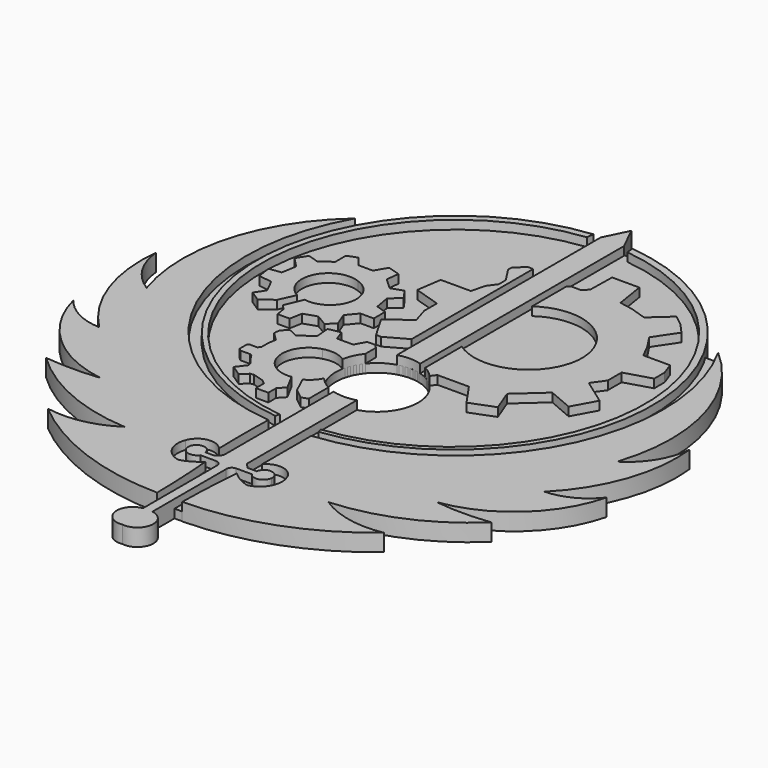
from build123d import *

# Parameters (mm, degrees)
F2_DEPTH = 1.25
F3_DEPTH = 0.625
F5_R     = 3
F6_DEPTH = 2.54


with BuildPart() as f2:
    # F0 (on Top) → F2 (new body)
    with BuildSketch(Plane.XY):
        with BuildLine():
            ThreePointArc((7.96665, -14.113483), (12.689905, -12.973137), (16.731889, -10.276491))
            ThreePointArc((16.731889, -10.276491), (14.747744, -10.404392), (12.7636, -10.276491))
            ThreePointArc((12.7636, -10.276491), (17.332897, -8.126856), (19.93525, -3.799367))
            ThreePointArc((19.93525, -3.799367), (18.517616, -4.982954), (16.731889, -5.453849))
            ThreePointArc((16.731889, -5.453849), (19.377335, -1.223938), (19.93525, 3.733811))
            ThreePointArc((19.93525, 3.733811), (19.235053, 1.594903), (17.647134, 0))
            ThreePointArc((17.647134, 0), (17.826824, 7.616048), (13.747909, 14.050247))
            ThreePointArc((13.747909, 14.050247), (14.000056, -0.308123), (2.111879, -8.364028))
            Line((2.111879, -8.364028), (2.111879, -12.835627))
            ThreePointArc((2.111879, -12.835627), (3.288923, -12.41736), (4.233484, -13.234786))
            ThreePointArc((4.233484, -13.234786), (4.137004, -14.587473), (3.028349, -15.368469))
            ThreePointArc((3.028349, -15.368469), (2.315874, -15.065061), (1.695128, -14.602079))
            ThreePointArc((1.695128, -14.602079), (1.534916, -16.935639), (1.463834, -19.273613))
            ThreePointArc((1.463834, -19.273613), (7.477276, -18.159801), (12.7636, -15.084603))
            ThreePointArc((12.7636, -15.084603), (10.27066, -15.06566), (7.96665, -14.113483))
        make_face()
        with BuildLine():
            ThreePointArc((-6.858689, -14.113483), (-9.1627, -15.06566), (-11.655639, -15.084603))
            ThreePointArc((-11.655639, -15.084603), (-6.369315, -18.159801), (-0.355873, -19.273613))
            ThreePointArc((-0.355873, -19.273613), (-0.426955, -16.935639), (-0.587167, -14.602079))
            ThreePointArc((-0.587167, -14.602079), (-1.207913, -15.065061), (-1.920388, -15.368469))
            ThreePointArc((-1.920388, -15.368469), (-3.029043, -14.587473), (-3.125524, -13.234786))
            ThreePointArc((-3.125524, -13.234786), (-2.180962, -12.41736), (-1.003918, -12.835627))
            ThreePointArc((-1.003918, -12.835627), (-1.038829, -10.599828), (-1.003918, -8.364028))
            ThreePointArc((-1.003918, -8.364028), (-12.892096, -0.308123), (-12.639948, 14.050247))
            ThreePointArc((-12.639948, 14.050247), (-16.718863, 7.616048), (-16.539173, 0))
            ThreePointArc((-16.539173, 0), (-18.127093, 1.594903), (-18.827289, 3.733811))
            ThreePointArc((-18.827289, 3.733811), (-18.269374, -1.223938), (-15.623928, -5.453849))
            ThreePointArc((-15.623928, -5.453849), (-17.409656, -4.982954), (-18.827289, -3.799367))
            ThreePointArc((-18.827289, -3.799367), (-16.224936, -8.126856), (-11.655639, -10.276491))
            ThreePointArc((-11.655639, -10.276491), (-13.639783, -10.382298), (-15.623928, -10.276491))
            ThreePointArc((-15.623928, -10.276491), (-11.581945, -12.973137), (-6.858689, -14.113483))
        make_face()
        with BuildLine():
            Line((-2.66604, -4.558767), (-3.287662, -3.396926))
            ThreePointArc((-3.287662, -3.396926), (-5.458791, -1.879863), (-4.055453, 0.366451))
            ThreePointArc((-4.055453, 0.366451), (-1.665422, -0.782654), (-2.592574, -3.267223))
            Line((-2.592574, -3.267223), (-2.036038, -4.46336))
            Line((-2.036038, -4.46336), (-1.305065, -5.044816))
            Line((-1.305065, -5.044816), (-0.848206, -4.878686))
            Line((-0.848206, -4.878686), (-0.848206, -3.533031))
            Line((-0.848206, -3.533031), (-0.848206, 0.611917))
            Line((-0.848206, 0.611917), (-1.786842, 1.450874))
            Line((-1.786842, 1.450874), (-1.786842, 2.38951))
            Line((-1.786842, 2.38951), (-2.05265, 2.638705))
            Line((-2.05265, 2.638705), (-2.617493, 2.638705))
            Line((-2.617493, 2.638705), (-3.033743, 1.885299))
            Line((-3.033743, 1.885299), (-4.217403, 1.885299))
            Line((-4.217403, 1.885299), (-4.485816, 2.646537))
            Line((-4.485816, 2.646537), (-5.37466, 2.470528))
            Line((-5.37466, 2.470528), (-5.282256, 1.414475))
            Line((-5.282256, 1.414475), (-5.799396, 1.060874))
            Line((-5.799396, 1.060874), (-6.302614, 0.735263))
            Line((-6.302614, 0.735263), (-6.600717, 0.872098))
            Line((-6.600717, 0.872098), (-6.825726, 1.010356))
            Line((-6.825726, 1.010356), (-7.021806, 1.010356))
            Line((-7.021806, 1.010356), (-7.369935, 0.620925))
            Line((-7.369935, 0.620925), (-7.417405, 0.400861))
            Line((-7.417405, 0.400861), (-7.417405, 0.177091))
            Line((-7.417405, 0.177091), (-6.820686, -0.405643))
            Line((-6.820686, -0.405643), (-6.916015, -0.937096))
            Line((-6.916015, -0.937096), (-6.916015, -1.609442))
            Line((-6.916015, -1.609442), (-7.070383, -1.782124))
            Line((-7.070383, -1.782124), (-7.596276, -1.782124))
            Line((-7.596276, -1.782124), (-7.754477, -1.884163))
            Line((-7.754477, -1.884163), (-7.754477, -2.52189))
            Line((-7.754477, -2.52189), (-7.587268, -2.684698))
            Line((-7.587268, -2.684698), (-6.861232, -2.684698))
            Line((-6.861232, -2.684698), (-6.716025, -2.763902))
            Line((-6.716025, -2.763902), (-6.42561, -3.212725))
            Line((-6.42561, -3.212725), (-6.178326, -3.504713))
            Line((-6.178326, -3.504713), (-6.086026, -3.798096))
            Line((-6.086026, -3.798096), (-6.613457, -4.496942))
            Line((-6.613457, -4.496942), (-5.838793, -5.011186))
            Line((-5.838793, -5.011186), (-5.364106, -4.566167))
            Line((-5.364106, -4.566167), (-5.108125, -4.521766))
            Line((-5.108125, -4.521766), (-4.316297, -4.765974))
            Line((-4.316297, -4.765974), (-4.005487, -5.002782))
            Line((-4.005487, -5.002782), (-4.005487, -5.742808))
            Line((-4.005487, -5.742808), (-3.102655, -5.742808))
            Line((-3.102655, -5.742808), (-3.102655, -5.024983))
            Line((-3.102655, -5.024983), (-2.66604, -4.558767))
        make_face()
        with BuildLine():
            Line((-9.839283, 3.489518), (-9.31066, 4.640741))
            ThreePointArc((-9.31066, 4.640741), (-10.167984, 7.150235), (-7.713044, 8.153148))
            ThreePointArc((-7.713044, 8.153148), (-6.436513, 5.882432), (-8.629324, 4.476281))
            Line((-8.629324, 4.476281), (-9.169694, 3.184091))
            Line((-9.169694, 3.184091), (-8.840773, 2.796434))
            Line((-8.840773, 2.796434), (-8.723301, 2.126845))
            Line((-8.723301, 2.126845), (-7.842262, 2.126845))
            Line((-7.842262, 2.126845), (-7.677802, 3.031378))
            Line((-7.677802, 3.031378), (-6.738028, 3.348552))
            Line((-6.738028, 3.348552), (-5.880484, 2.843423))
            Line((-5.880484, 2.843423), (-5.340114, 3.383793))
            Line((-5.340114, 3.383793), (-5.727771, 4.370556))
            Line((-5.727771, 4.370556), (-5.10517, 5.122376))
            Line((-5.10517, 5.122376), (-4.130154, 5.122376))
            Line((-4.130154, 5.122376), (-4.130154, 6.14438))
            Line((-4.130154, 6.14438), (-4.881973, 6.391071))
            Line((-4.881973, 6.391071), (-5.081675, 7.507053))
            Line((-5.081675, 7.507053), (-4.376845, 8.1414))
            Line((-4.376845, 8.1414), (-4.893721, 8.881473))
            Line((-4.893721, 8.881473), (-5.751265, 8.587793))
            Line((-5.751265, 8.587793), (-6.56182, 9.327866))
            Line((-6.56182, 9.327866), (-6.444348, 10.255893))
            Line((-6.444348, 10.255893), (-7.337134, 10.526078))
            Line((-7.337134, 10.526078), (-7.842262, 9.680281))
            Line((-7.842262, 9.680281), (-8.899509, 9.680281))
            Line((-8.899509, 9.680281), (-9.47512, 10.420353))
            Line((-9.47512, 10.420353), (-10.179951, 10.150168))
            Line((-10.179951, 10.150168), (-10.179951, 9.186899))
            Line((-10.179951, 9.186899), (-11.014001, 8.587793))
            Line((-11.014001, 8.587793), (-11.801062, 8.834484))
            Line((-11.801062, 8.834484), (-12.270949, 8.094412))
            Line((-12.270949, 8.094412), (-11.554372, 7.35434))
            Line((-11.554372, 7.35434), (-11.738026, 6.278024))
            Line((-11.738026, 6.278024), (-12.611617, 6.156127))
            Line((-12.611617, 6.156127), (-12.470651, 5.14587))
            Line((-12.470651, 5.14587), (-11.495635, 5.016651))
            Line((-11.495635, 5.016651), (-11.010943, 4.028227))
            Line((-11.010943, 4.028227), (-11.483888, 3.31331))
            Line((-11.483888, 3.31331), (-10.720322, 2.808181))
            Line((-10.720322, 2.808181), (-9.839283, 3.489518))
        make_face()
        with BuildLine():
            ThreePointArc((8.126893, 8.355334), (5.83482, 5.175692), (1.932796, 5.547089))
            Line((1.932796, 5.547089), (1.932796, 0.429071))
            Line((1.932796, 0.429071), (3.031914, 1.947447))
            Line((3.031914, 1.947447), (5.321924, 1.947447))
            Line((5.321924, 1.947447), (6.442037, 0.329505))
            Line((6.442037, 0.329505), (8.184436, 1.001573))
            Line((8.184436, 1.001573), (7.561916, 2.615513))
            Line((7.561916, 2.615513), (9.472835, 4.335339))
            Line((9.472835, 4.335339), (11.270969, 3.565388))
            Line((11.270969, 3.565388), (12.191951, 5.233112))
            Line((12.191951, 5.233112), (10.349987, 6.552357))
            Line((10.349987, 6.552357), (11.002046, 7.462778))
            Line((11.002046, 7.462778), (11.002046, 8.717909))
            Line((11.002046, 8.717909), (12.913803, 9.290411))
            Line((12.913803, 9.290411), (12.913803, 10.236285))
            Line((12.913803, 10.236285), (12.590214, 11.132375))
            Line((12.590214, 11.132375), (10.654758, 11.132375))
            Line((10.654758, 11.132375), (10.153698, 12.111811))
            Line((10.153698, 12.111811), (9.520781, 13.074371))
            Line((9.520781, 13.074371), (10.588828, 14.669849))
            Line((10.588828, 14.669849), (9.898434, 15.436954))
            Line((9.898434, 15.436954), (9.138394, 16.027981))
            Line((9.138394, 16.027981), (7.77028, 14.79668))
            Line((7.77028, 14.79668), (6.580357, 15.184093))
            Line((6.580357, 15.184093), (5.60461, 15.368694))
            Line((5.60461, 15.368694), (5.262227, 17.502511))
            Line((5.262227, 17.502511), (3.286595, 17.502511))
            Line((3.286595, 17.502511), (3.247082, 15.546635))
            Line((3.247082, 15.546635), (2.838857, 15.179233))
            Line((2.838857, 15.179233), (2.180241, 15.191021))
            Line((2.180241, 15.191021), (1.954298, 14.987673))
            Line((1.954298, 14.987673), (1.954298, 11.891716))
            ThreePointArc((1.954298, 11.891716), (6.166799, 12.089262), (8.126893, 8.355334))
        make_face()
        with BuildLine():
            Line((1.399603, 20.932565), (0.55398, 22.669127))
            Line((0.55398, 22.669127), (0.55398, -0.447688))
            Line((0.55398, -0.447688), (0.55398, -23.564503))
            ThreePointArc((0.55398, -23.564503), (1.872504, -22.585999), (0.894, -21.267476))
            Line((0.894, -21.267476), (0.894, -14.563355))
            ThreePointArc((0.894, -14.563355), (0.999891, -14.27014), (1.28604, -14.146424))
            Line((1.28604, -14.146424), (2.418599, -14.146424))
            ThreePointArc((2.418599, -14.146424), (3.109918, -14.393495), (3.600941, -13.847726))
            ThreePointArc((3.600941, -13.847726), (3.087503, -13.179165), (2.418599, -13.692155))
            Line((2.418599, -13.692155), (1.758977, -13.692155))
            Line((1.758977, -13.692155), (1.399603, -13.323359))
            Line((1.399603, -13.323359), (1.399603, 20.932565))
        make_face()
        with BuildLine():
            Line((0.55398, -0.447688), (0.55398, 22.669127))
            Line((0.55398, 22.669127), (-0.291642, 20.932565))
            Line((-0.291642, 20.932565), (-0.291642, -13.323359))
            Line((-0.291642, -13.323359), (-0.651016, -13.692155))
            Line((-0.651016, -13.692155), (-1.310638, -13.692155))
            ThreePointArc((-1.310638, -13.692155), (-1.979543, -13.179165), (-2.49298, -13.847726))
            ThreePointArc((-2.49298, -13.847726), (-2.001958, -14.393495), (-1.310638, -14.146424))
            Line((-1.310638, -14.146424), (-0.178079, -14.146424))
            ThreePointArc((-0.178079, -14.146424), (0.10807, -14.27014), (0.21396, -14.563355))
            Line((0.21396, -14.563355), (0.21396, -21.267476))
            ThreePointArc((0.21396, -21.267476), (-0.764543, -22.585999), (0.55398, -23.564503))
            Line((0.55398, -23.564503), (0.55398, -0.447688))
        make_face()
        Polygon((-2.393492, 3.622479), (-0.86464, 4.47474), (-0.86464, 15.518249), (-1.241628, 15.518249), (-1.928953, 14.899657), (-1.928953, 14.564693), (-1.219452, 13.478083), (-1.219452, 12.834987), (-1.685142, 12.191891), (-1.929075, 11.193983), (-4.124471, 11.193983), (-4.39058, 9.39775), (-2.483468, 8.799005), (-2.483468, 7.645868), (-2.128656, 6.492731), (-3.725538, 5.272737), (-2.763504, 3.622479), align=None)
        with BuildLine():
            ThreePointArc((-0.863295, 20.980721), (-13.786983, 6.703279), (-1.021345, -7.715652))
            ThreePointArc((-1.021345, -7.715652), (-0.974588, -7.568263), (-0.924777, -7.421878))
            ThreePointArc((-0.924777, -7.421878), (-13.350821, 6.526148), (-0.914884, 20.465354))
            ThreePointArc((-0.914884, 20.465354), (-0.887867, 20.722915), (-0.863295, 20.980721))
        make_face()
        with BuildLine():
            ThreePointArc((2.032738, -7.421878), (2.082549, -7.568263), (2.129306, -7.715652))
            ThreePointArc((2.129306, -7.715652), (14.894944, 6.703279), (1.971255, 20.980721))
            ThreePointArc((1.971255, 20.980721), (1.995827, 20.722915), (2.022845, 20.465354))
            ThreePointArc((2.022845, 20.465354), (14.458782, 6.526148), (2.032738, -7.421878))
        make_face()
    extrude(amount=F2_DEPTH)


with BuildPart() as f3:
    # F1 (on Top) → F3 (new body)
    with BuildSketch(Plane.XY):
        Polygon((1.973096, 20.988457), (-0.858357, 20.988457), (-3.138746, 20.433419), (-7.989184, 17.989852), (-11.535112, 14.043198), (-12.642719, 14.046973), (-13.800996, 12.230686), (-15.23866, 8.634299), (-15.23866, 2.737597), (-12.069335, -3.553456), (-8.406204, -7.382941), (-2.944809, -9.214434), (-4.088854, -14.229932), (-1.993339, -18.389493), (-0.404528, -19.259324), (1.474312, -19.259324), (2.998265, -18.157221), (5.103476, -14.311899), (3.83835, -9.364673), (9.886966, -7.012526), (13.75449, -3.260292), (16.092217, 0.995973), (16.495639, 7.100353), (15.688794, 10.255492), (14.45665, 13.002732), (13.75449, 14.043198), (12.748852, 14.043198), (11.986716, 15.013074), (9.853115, 17.280024), (7.561161, 18.9553), (5.25359, 20.028008), align=None)
    extrude(amount=F3_DEPTH)


with BuildPart() as f6_tool:
    # F5 (on offset) → F6 (new body)
    with BuildSketch(Plane.XY.offset(1.524)):
        with Locations((0.554, -0.447687)):
            Circle(F5_R)
    extrude(amount=-F6_DEPTH)


with BuildPart() as f2_1:
    add(f2.part)

    # F6: cut by f6_tool
    add(f6_tool.part, mode=Mode.SUBTRACT)


with BuildPart() as f3_1:
    add(f3.part)

    # F6: cut by f6_tool
    add(f6_tool.part, mode=Mode.SUBTRACT)


solid = Compound([f2_1.part, f3_1.part])
